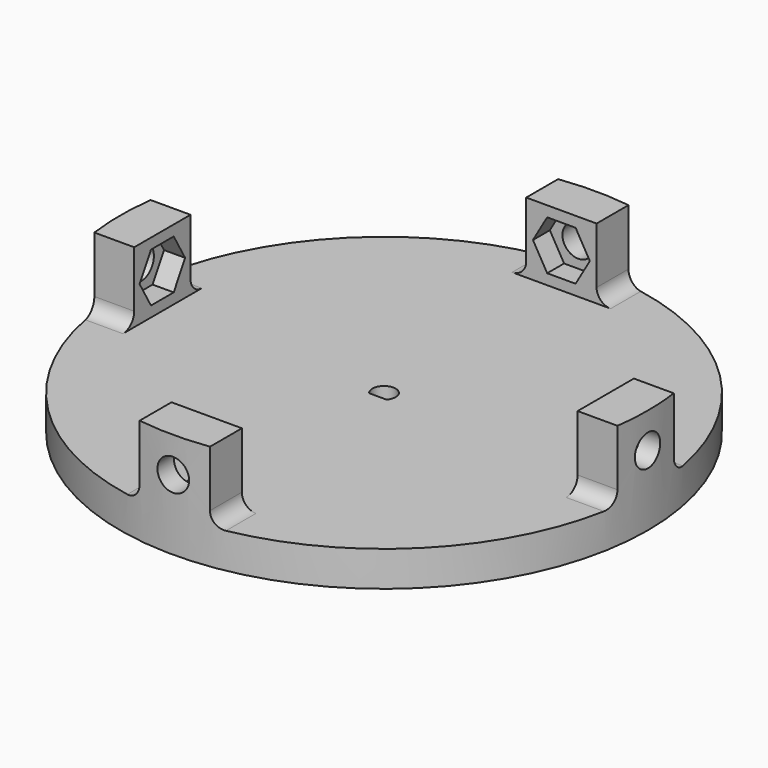
from build123d import *

# Parameters (mm, degrees)
SKETCH_R        = 37.5
PAD_DEPTH       = 5
SKETCH001_W     = 10
SKETCH001_H     = 6
SKETCH001_W_2   = 6
SKETCH001_H_2   = 10
PAD001_DEPTH    = 10
POCKET_DEPTH    = 3
POCKET001_DEPTH = 3
POCKET002_DEPTH = 3
POCKET003_DEPTH = 3
SKETCH006_R     = 2.25
POCKET004_DEPTH = 75
SKETCH007_R     = 2.25
POCKET005_DEPTH = 75
SKETCH008_R     = 1.65
POCKET006_DEPTH = 5
SKETCH009_W     = 2.756733
SKETCH009_H     = 1.311991
PAD002_DEPTH    = 5
SKETCH010_R     = 40
SKETCH010_R_2   = 37.5
POCKET007_DEPTH = 15
FILLET_R        = 2


with BuildPart() as part:
    # Sketch → Pad (new body)
    with BuildSketch(Plane.XY):
        Circle(SKETCH_R)
    extrude(amount=PAD_DEPTH)

    # Sketch001 (on Face3 of Pad) → Pad001 (join)
    with BuildSketch(Plane.XY.offset(5)):
        with Locations((0, 34.5)):
            Rectangle(SKETCH001_W, SKETCH001_H)
        with Locations((0, -34.5)):
            Rectangle(SKETCH001_W, SKETCH001_H)
        with Locations((-34.5, 0)):
            Rectangle(SKETCH001_W_2, SKETCH001_H_2)
        with Locations((34.5, 0)):
            Rectangle(SKETCH001_W_2, SKETCH001_H_2)
    extrude(amount=PAD001_DEPTH)

    # Sketch002 (on Face20 of Pad001) → Pocket (cut)
    with BuildSketch(Plane.YZ.offset(-31.5)):
        Polygon((4.041452, 10), (2.020726, 13.5), (-2.020726, 13.5), (-4.041452, 10), (-2.020726, 6.5), (2.020726, 6.5), align=None)
    extrude(amount=-POCKET_DEPTH, mode=Mode.SUBTRACT)

    # Sketch003 (on Face23 of Pocket) → Pocket001 (cut)
    with BuildSketch(Plane.XZ.offset(-31.5)):
        Polygon((4.041452, 10), (2.020726, 13.5), (-2.020726, 13.5), (-4.041452, 10), (-2.020726, 6.5), (2.020726, 6.5), align=None)
    extrude(amount=-POCKET001_DEPTH, mode=Mode.SUBTRACT)

    # Sketch004 (on Face15 of Pocket001) → Pocket002 (cut)
    with BuildSketch(Plane(origin=(31.5, 0, 0), x_dir=(0, -1, 0), z_dir=(-1, 0, 0))):
        Polygon((4.041452, 10), (2.020726, 13.5), (-2.020726, 13.5), (-4.041452, 10), (-2.020726, 6.5), (2.020726, 6.5), align=None)
    extrude(amount=-POCKET002_DEPTH, mode=Mode.SUBTRACT)

    # Sketch005 (on Face17 of Pocket002) → Pocket003 (cut)
    with BuildSketch(Plane(origin=(0, -31.5, 0), x_dir=(-1, 0, 0), z_dir=(0, 1, 0))):
        Polygon((4.041452, 10), (2.020726, 13.5), (-2.020726, 13.5), (-4.041452, 10), (-2.020726, 6.5), (2.020726, 6.5), align=None)
    extrude(amount=-POCKET003_DEPTH, mode=Mode.SUBTRACT)

    # Sketch006 (on Face12 of Pocket003) → Pocket004 (cut)
    with BuildSketch(Plane.YZ.offset(37.5)):
        with Locations((0, 10)):
            Circle(SKETCH006_R)
    extrude(amount=-POCKET004_DEPTH, mode=Mode.SUBTRACT)

    # Sketch007 (on Face25 of Pocket004) → Pocket005 (cut)
    with BuildSketch(Plane.XZ.offset(37.5)):
        with Locations((0, 10)):
            Circle(SKETCH007_R)
    extrude(amount=-POCKET005_DEPTH, mode=Mode.SUBTRACT)

    # Sketch008 (on Face2 of Pocket005) → Pocket006 (cut)
    with BuildSketch(Plane(origin=(0, 0, 0), x_dir=(1, 0, 0), z_dir=(0, 0, -1))):
        Circle(SKETCH008_R)
    extrude(amount=-POCKET006_DEPTH, mode=Mode.SUBTRACT)

    # Sketch009 (on Face2 of Pocket006) → Pad002 (join)
    with BuildSketch(Plane(origin=(0, 0, 0), x_dir=(1, 0, 0), z_dir=(0, 0, -1))):
        with Locations((-0.025144, 1.755996)):
            Rectangle(SKETCH009_W, SKETCH009_H)
    extrude(amount=-PAD002_DEPTH)

    # Sketch010 (on Face62 of Pad002) → Pocket007 (cut)
    with BuildSketch(Plane(origin=(0, 0, 0), x_dir=(1, 0, 0), z_dir=(0, 0, -1))):
        Circle(SKETCH010_R)
        Circle(SKETCH010_R_2, mode=Mode.SUBTRACT)
    extrude(amount=-POCKET007_DEPTH, mode=Mode.SUBTRACT)

    # Fillet
    fillet_edges = [part.edges().sort_by_distance(p)[0] for p in [
        (5, -34.332586, 5),
        (-5, -34.332586, 5),
        (-34.332586, -5, 5),
        (34.332586, -5, 5),
        (5, 34.332586, 5),
        (34.332586, 5, 5),
        (-34.332586, 5, 5),
        (-5, 34.332586, 5),
    ]]
    fillet(fillet_edges, radius=FILLET_R)


solid = part.part
